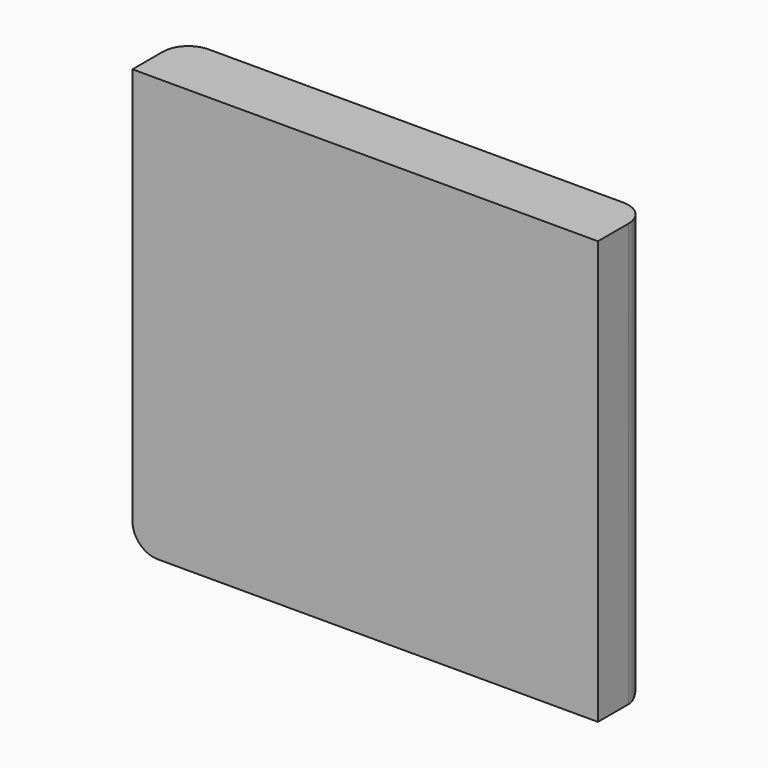
from build123d import *

# Parameters (mm, degrees)
F0_W     = 139.7
F0_H     = 127
F1_DEPTH = 19.05
F2_R     = 7.62
F3_R     = 7.62


with BuildPart() as f1:
    # F0 (on Front) → F1 (new body)
    with BuildSketch(Plane.XZ):
        Rectangle(F0_W, F0_H)
    extrude(amount=F1_DEPTH)

    # F2
    f2_edges = [f1.edges().sort_by_distance(p)[0] for p in [
        (69.85, 0, 0),
        (0, 0, -63.5),
    ]]
    fillet(f2_edges, radius=F2_R)

    # F3
    f3_edges = [f1.edges().sort_by_distance(p)[0] for p in [
        (-69.85, 0, 3.81),
    ]]
    fillet(f3_edges, radius=F3_R)


solid = f1.part
